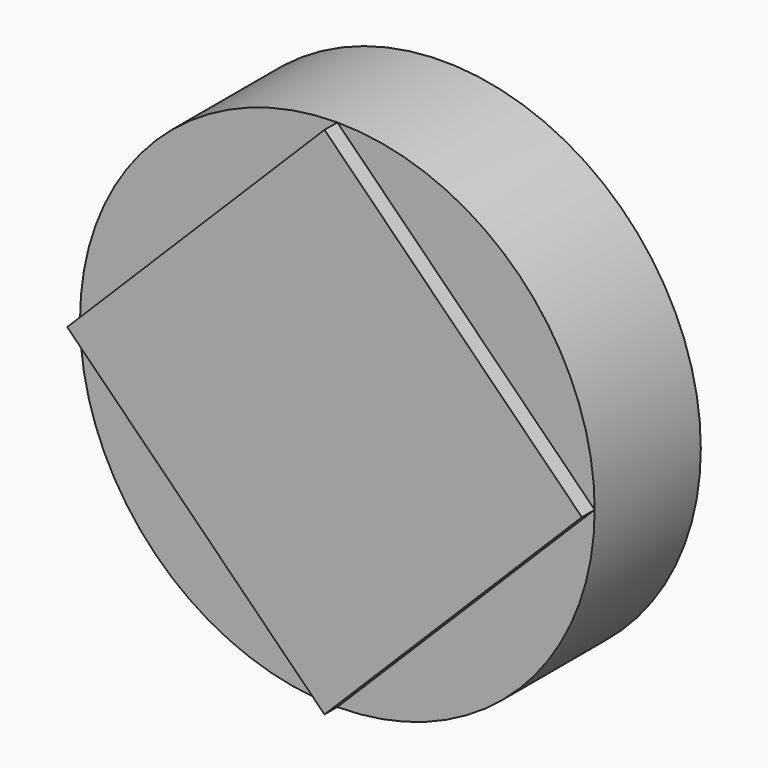
from build123d import *

# Parameters (mm, degrees)
F0_R     = 49.267776
F1_DEPTH = 25.4
F3_DEPTH = 3.0734


with BuildPart() as f1:
    # F0 (on Front) → F1 (new body)
    with BuildSketch(Plane.XZ):
        Circle(F0_R)
    extrude(amount=F1_DEPTH)

    # F2 (on face) → F3 (join)
    with BuildSketch(Plane.XZ.offset(25.4)):
        Polygon((49.267776, 0), (0, 49.267776), (-49.267776, 0), (0, -49.267776), align=None)
    extrude(amount=F3_DEPTH)


solid = f1.part
